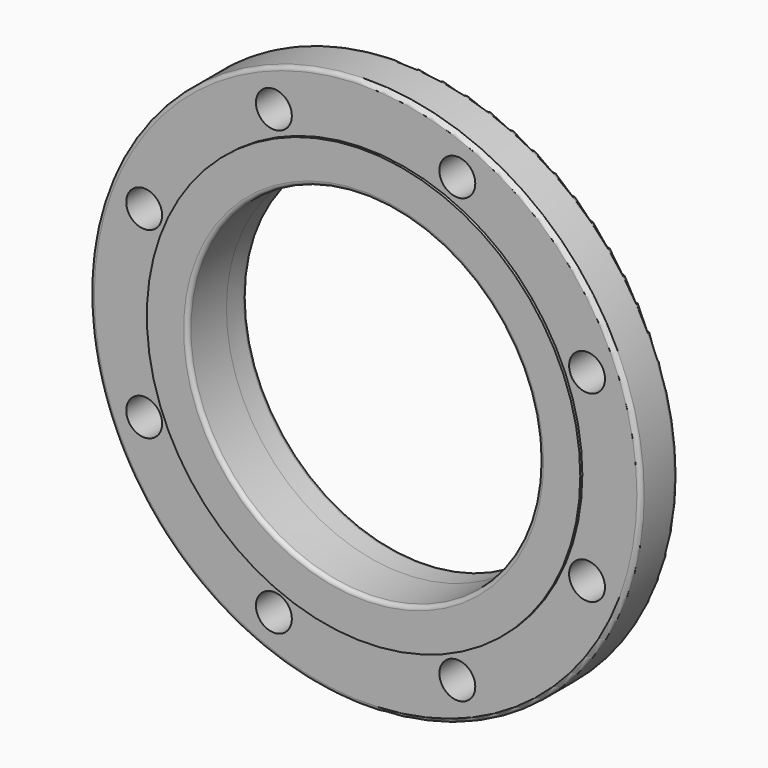
from build123d import *

# Parameters (mm, degrees)
F0_R     = 171.45
F0_R_2   = 11.176
F0_R_3   = 109.5375
F1_DEPTH = 28.575
F2_R     = 134.9375
F2_R_2   = 109.5375
F3_DEPTH = 1.5875
F4_R     = 123.063
F4_R_2   = 109.5375
F5_DEPTH = 15.875
F6_R     = 2.54


with BuildPart() as f1:
    # F0 (on Front) → F1 (new body)
    with BuildSketch(Plane.XZ):
        Circle(F0_R)
        with Locations((-57.105935, -137.865923)):
            Circle(F0_R_2, mode=Mode.SUBTRACT)
        with Locations((-137.865923, -57.105935)):
            Circle(F0_R_2, mode=Mode.SUBTRACT)
        with Locations((57.105935, -137.865923)):
            Circle(F0_R_2, mode=Mode.SUBTRACT)
        with Locations((137.865923, -57.105935)):
            Circle(F0_R_2, mode=Mode.SUBTRACT)
        with Locations((-137.865923, 57.105935)):
            Circle(F0_R_2, mode=Mode.SUBTRACT)
        with Locations((-57.105935, 137.865923)):
            Circle(F0_R_2, mode=Mode.SUBTRACT)
        Circle(F0_R_3, mode=Mode.SUBTRACT)
        with Locations((137.865923, 57.105935)):
            Circle(F0_R_2, mode=Mode.SUBTRACT)
        with Locations((57.105935, 137.865923)):
            Circle(F0_R_2, mode=Mode.SUBTRACT)
    extrude(amount=F1_DEPTH)

    # F2 (on face) → F3 (join)
    with BuildSketch(Plane.XZ.offset(28.575)):
        Circle(F2_R)
        Circle(F2_R_2, mode=Mode.SUBTRACT)
    extrude(amount=F3_DEPTH)

    # F4 (on face) → F5 (join)
    with BuildSketch(Plane(origin=(0, 0, 0), x_dir=(-1, 0, 0), z_dir=(0, 1, 0))):
        Circle(F4_R)
        Circle(F4_R_2, mode=Mode.SUBTRACT)
    extrude(amount=F5_DEPTH)

    # F6
    f6_edges = [f1.edges().sort_by_distance(p)[0] for p in [
        (-171.45, -28.575, 0),
        (-171.45, 0, 0),
        (-109.5375, -30.1625, 0),
        (109.5375, 15.875, 0),
        (123.063, 15.875, 0),
    ]]
    fillet(f6_edges, radius=F6_R)


with BuildPart() as f7_1:
    # F7: copy of F1
    add(f1.part)


solid = f1.part
